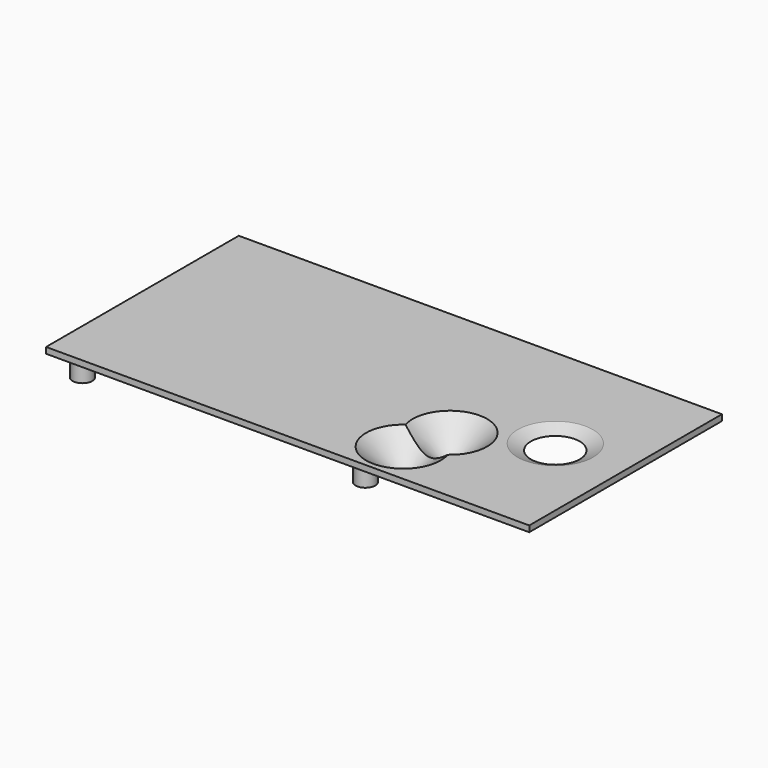
from build123d import *

# Parameters (mm, degrees)
SKETCH001_W                    = 160.5
SKETCH001_H                    = 2
PAD001_DEPTH                   = 40
CYLINDER_R                     = 3.25
CYLINDER_DEPTH                 = 7.65
CYLINDER_LINEARPATTERN_2_R     = 3.25
CYLINDER_LINEARPATTERN_2_DEPTH = 7.65


with BuildPart() as part:
    # Sketch001 → Pad001 (new body, symmetric)
    with BuildSketch(Plane.XZ):
        with Locations((-20.25, 21.5)):
            Rectangle(SKETCH001_W, SKETCH001_H)
    extrude(amount=PAD001_DEPTH, both=True)

    # Cone002 → Cone002 (revolve)
    with BuildSketch(Plane(origin=(11.4, -12.2, 12.75), x_dir=(1, 0, 0), z_dir=(0, -1, 0))):
        Polygon((0, 0), (2.5, 0), (12.5, 8.75), (0, 8.75), align=None)
    revolve(axis=Axis((11.4, -12.2, 12.75), (0, 0, 1)))

    # Cone003 → Cone003 (revolve)
    with BuildSketch(Plane(origin=(6.85, -25.85, 12.75), x_dir=(1, 0, 0), z_dir=(0, -1, 0))):
        Polygon((0, 0), (2.5, 0), (12.5, 8.75), (0, 8.75), align=None)
    revolve(axis=Axis((6.85, -25.85, 12.75), (0, 0, 1)))

    # Cylinder → Cylinder (join)
    with BuildSketch(Plane(origin=(0, -33.025, 20.5), x_dir=(1, 0, 0), z_dir=(0, 0, -1))):
        Circle(CYLINDER_R)
    cylinder = extrude(amount=CYLINDER_DEPTH)

    # Cylinder LinearPattern 2 → Cylinder LinearPattern 2 (add)
    with BuildSketch(Plane(origin=(-94, -33.025, 20.5), x_dir=(1, 0, 0), z_dir=(0, 0, -1))):
        Circle(CYLINDER_LINEARPATTERN_2_R)
    cylinder_linearpattern_2 = extrude(amount=CYLINDER_LINEARPATTERN_2_DEPTH)

    # Mirrored: Cylinder, Cylinder LinearPattern 2 across XZ
    add(cylinder.mirror(Plane.XZ))
    add(cylinder_linearpattern_2.mirror(Plane.XZ))

    # Cone001 → Cone001 (revolve, cut)
    with BuildSketch(Plane(origin=(11.4, -12.2, 12.75), x_dir=(1, 0, 0), z_dir=(0, -1, 0))):
        Polygon((0, 0), (1.5, 0), (13.5, 10.75), (0, 10.75), align=None)
    revolve(axis=Axis((11.4, -12.2, 12.75), (0, 0, 1)), mode=Mode.SUBTRACT)

    # Cone004 → Cone004 (revolve, cut)
    with BuildSketch(Plane(origin=(6.85, -25.85, 12.75), x_dir=(1, 0, 0), z_dir=(0, -1, 0))):
        Polygon((0, 0), (1.5, 0), (13.5, 10.75), (0, 10.75), align=None)
    revolve(axis=Axis((6.85, -25.85, 12.75), (0, 0, 1)), mode=Mode.SUBTRACT)

    # Cone → Cone (revolve, cut)
    with BuildSketch(Plane(origin=(36.525, 0.15, 17.5), x_dir=(1, 0, 0), z_dir=(0, -1, 0))):
        Polygon((0, 0), (1.5, 0), (12.5, 5), (0, 5), align=None)
    revolve(axis=Axis((36.525, 0.15, 17.5), (0, 0, 1)), mode=Mode.SUBTRACT)


solid = part.part
